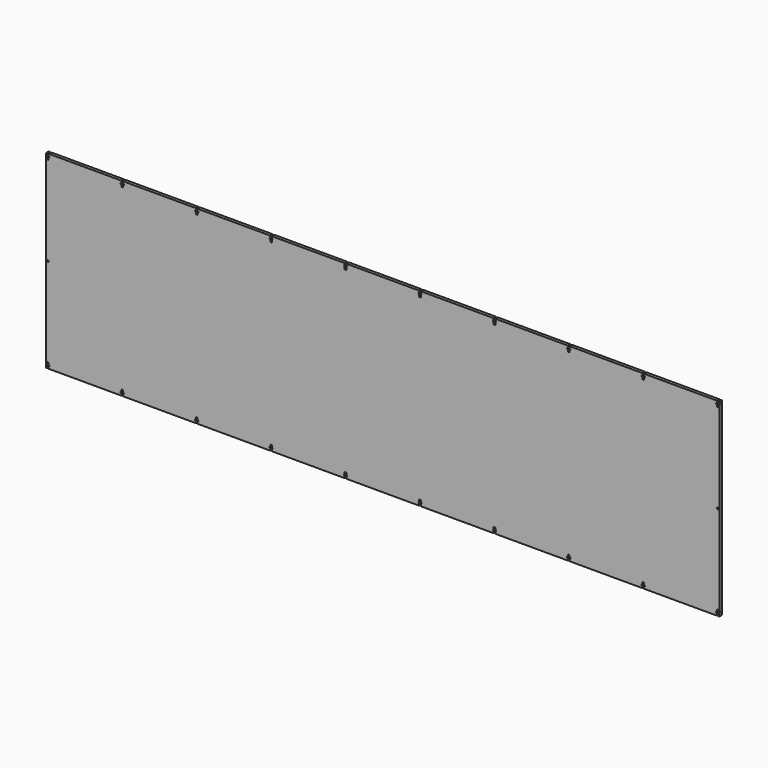
from build123d import *

# Parameters (mm, degrees)
F0_W     = 1.292
F0_H     = 4
F0_W_2   = 0.208
F0_H_2   = 2
F0_W_3   = 1.294
F0_W_4   = 0.206
F0_R     = 1.5
F1_DEPTH = 5.588


with BuildPart() as f1:
    # F0 (on Front) → F1 (new body)
    with BuildSketch(Plane.XZ):
        with Locations((608.954, 169.45)):
            Rectangle(F0_W, F0_H)
        with Locations((609.704, 166.45)):
            Rectangle(F0_W_2, F0_H_2)
        with Locations((608.954, -169.45)):
            Rectangle(F0_W, F0_H)
        with Locations((609.704, -166.45)):
            Rectangle(F0_W_2, F0_H_2)
        with Locations((-608.953, -169.45)):
            Rectangle(F0_W_3, F0_H)
        with Locations((-609.703, -166.45)):
            Rectangle(F0_W_4, F0_H_2)
        with Locations((606.806, 0)):
            Circle(F0_R)
        Polygon((-608.306, 165.45), (-609.6, 165.45), (-609.6, -165.45), (-608.306, -165.45), (-608.306, -161.45), (-605.306, -161.45), (-605.306, -165.45), (-603.806, -165.45), (-603.806, -167.45), (-605.306, -167.45), (-605.306, -171.45), (-473.46, -171.45), (-473.46, -167.45), (-474.96, -167.45), (-474.96, -165.45), (-473.46, -165.45), (-473.46, -161.45), (-470.46, -161.45), (-470.46, -165.45), (-468.96, -165.45), (-468.96, -167.45), (-470.46, -167.45), (-470.46, -171.45), (-338.614, -171.45), (-338.614, -167.45), (-340.114, -167.45), (-340.114, -165.45), (-338.614, -165.45), (-338.614, -161.45), (-335.614, -161.45), (-335.614, -165.45), (-334.114, -165.45), (-334.114, -167.45), (-335.614, -167.45), (-335.614, -171.45), (-203.768, -171.45), (-203.768, -167.45), (-205.268, -167.45), (-205.268, -165.45), (-203.768, -165.45), (-203.768, -161.45), (-200.768, -161.45), (-200.768, -165.45), (-199.268, -165.45), (-199.268, -167.45), (-200.768, -167.45), (-200.768, -171.45), (-68.922, -171.45), (-68.922, -167.45), (-70.422, -167.45), (-70.422, -165.45), (-68.922, -165.45), (-68.922, -161.45), (-65.922, -161.45), (-65.922, -165.45), (-64.422, -165.45), (-64.422, -167.45), (-65.922, -167.45), (-65.922, -171.45), (65.924, -171.45), (65.924, -167.45), (64.424, -167.45), (64.424, -165.45), (65.924, -165.45), (65.924, -161.45), (68.924, -161.45), (68.924, -165.45), (70.424, -165.45), (70.424, -167.45), (68.924, -167.45), (68.924, -171.45), (200.77, -171.45), (200.77, -167.45), (199.27, -167.45), (199.27, -165.45), (200.77, -165.45), (200.77, -161.45), (203.77, -161.45), (203.77, -165.45), (205.27, -165.45), (205.27, -167.45), (203.77, -167.45), (203.77, -171.45), (335.616, -171.45), (335.616, -167.45), (334.116, -167.45), (334.116, -165.45), (335.616, -165.45), (335.616, -161.45), (338.616, -161.45), (338.616, -165.45), (340.116, -165.45), (340.116, -167.45), (338.616, -167.45), (338.616, -171.45), (470.462, -171.45), (470.462, -167.45), (468.962, -167.45), (468.962, -165.45), (470.462, -165.45), (470.462, -161.45), (473.462, -161.45), (473.462, -165.45), (474.962, -165.45), (474.962, -167.45), (473.462, -167.45), (473.462, -171.45), (605.308, -171.45), (605.308, -167.45), (603.808, -167.45), (603.808, -165.45), (605.308, -165.45), (605.308, -161.45), (608.308, -161.45), (608.308, -165.45), (609.6, -165.45), (609.6, 0), (609.6, 165.45), (608.308, 165.45), (608.308, 161.45), (605.308, 161.45), (605.308, 165.45), (603.808, 165.45), (603.808, 167.45), (605.308, 167.45), (605.308, 171.45), (473.462, 171.45), (473.462, 167.45), (474.962, 167.45), (474.962, 165.45), (473.462, 165.45), (473.462, 161.45), (470.462, 161.45), (470.462, 165.45), (468.962, 165.45), (468.962, 167.45), (470.462, 167.45), (470.462, 171.45), (338.616, 171.45), (338.616, 167.45), (340.116, 167.45), (340.116, 165.45), (338.616, 165.45), (338.616, 161.45), (335.616, 161.45), (335.616, 165.45), (334.116, 165.45), (334.116, 167.45), (335.616, 167.45), (335.616, 171.45), (203.77, 171.45), (203.77, 167.45), (205.27, 167.45), (205.27, 165.45), (203.77, 165.45), (203.77, 161.45), (200.77, 161.45), (200.77, 165.45), (199.27, 165.45), (199.27, 167.45), (200.77, 167.45), (200.77, 171.45), (68.924, 171.45), (68.924, 167.45), (70.424, 167.45), (70.424, 165.45), (68.924, 165.45), (68.924, 161.45), (65.924, 161.45), (65.924, 165.45), (64.424, 165.45), (64.424, 167.45), (65.924, 167.45), (65.924, 171.45), (-65.922, 171.45), (-65.922, 167.45), (-64.422, 167.45), (-64.422, 165.45), (-65.922, 165.45), (-65.922, 161.45), (-68.922, 161.45), (-68.922, 165.45), (-70.422, 165.45), (-70.422, 167.45), (-68.922, 167.45), (-68.922, 171.45), (-200.768, 171.45), (-200.768, 167.45), (-199.268, 167.45), (-199.268, 165.45), (-200.768, 165.45), (-200.768, 161.45), (-203.768, 161.45), (-203.768, 165.45), (-205.268, 165.45), (-205.268, 167.45), (-203.768, 167.45), (-203.768, 171.45), (-335.614, 171.45), (-335.614, 167.45), (-334.114, 167.45), (-334.114, 165.45), (-335.614, 165.45), (-335.614, 161.45), (-338.614, 161.45), (-338.614, 165.45), (-340.114, 165.45), (-340.114, 167.45), (-338.614, 167.45), (-338.614, 171.45), (-470.46, 171.45), (-470.46, 167.45), (-468.96, 167.45), (-468.96, 165.45), (-470.46, 165.45), (-470.46, 161.45), (-473.46, 161.45), (-473.46, 165.45), (-474.96, 165.45), (-474.96, 167.45), (-473.46, 167.45), (-473.46, 171.45), (-605.306, 171.45), (-605.306, 167.45), (-603.806, 167.45), (-603.806, 165.45), (-605.306, 165.45), (-605.306, 161.45), (-608.306, 161.45), align=None)
        with Locations((-606.806, 0)):
            Circle(F0_R, mode=Mode.SUBTRACT)
        with Locations((606.806, 0)):
            Circle(F0_R, mode=Mode.SUBTRACT)
        with Locations((-609.703, 166.45)):
            Rectangle(F0_W_4, F0_H_2)
        with Locations((-608.953, 169.45)):
            Rectangle(F0_W_3, F0_H)
    extrude(amount=F1_DEPTH)


solid = f1.part
